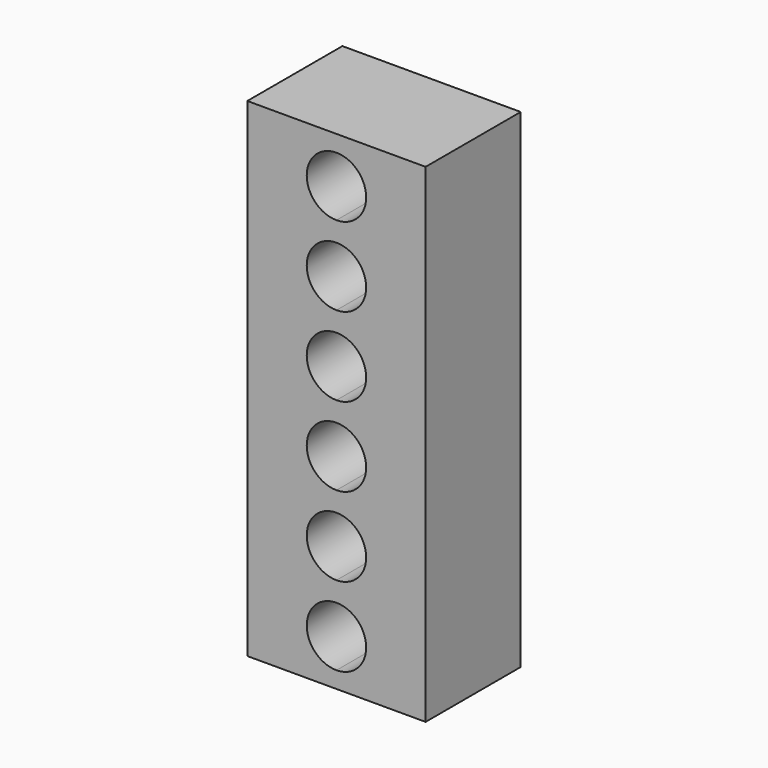
from build123d import *

# Parameters (mm, degrees)
F1_DEPTH = 22.86


with BuildPart() as f1:
    # F0 (on Front) → F1 (new body)
    with BuildSketch(Plane.XZ):
        with BuildLine():
            Line((0, 93.98), (0, 0))
            Line((0, 0), (17.145, 0))
            Line((17.145, 0), (17.145, 3.175))
            ThreePointArc((17.145, 3.175), (11.43, 8.89), (17.145, 14.605))
            Line((17.145, 14.605), (17.145, 18.415))
            ThreePointArc((17.145, 18.415), (11.43, 24.13), (17.145, 29.845))
            Line((17.145, 29.845), (17.145, 33.655))
            ThreePointArc((17.145, 33.655), (11.43, 39.37), (17.145, 45.085))
            Line((17.145, 45.085), (17.145, 48.895))
            ThreePointArc((17.145, 48.895), (11.43, 54.61), (17.145, 60.325))
            Line((17.145, 60.325), (17.145, 64.135))
            ThreePointArc((17.145, 64.135), (11.43, 69.85), (17.145, 75.565))
            Line((17.145, 75.565), (17.145, 79.375))
            ThreePointArc((17.145, 79.375), (11.43, 85.09), (17.145, 90.805))
            Line((17.145, 90.805), (17.145, 93.98))
            Line((17.145, 93.98), (0, 93.98))
        make_face()
        with BuildLine():
            Line((17.145, 3.175), (17.145, 0))
            Line((17.145, 0), (34.29, 0))
            Line((34.29, 0), (34.29, 93.98))
            Line((34.29, 93.98), (17.145, 93.98))
            Line((17.145, 93.98), (17.145, 90.805))
            ThreePointArc((17.145, 90.805), (21.1861152545, 89.1311152545), (22.86, 85.09))
            ThreePointArc((22.86, 85.09), (21.1861152545, 81.0488847455), (17.145, 79.375))
            Line((17.145, 79.375), (17.145, 75.565))
            ThreePointArc((17.145, 75.565), (21.1861152545, 73.8911152545), (22.86, 69.85))
            ThreePointArc((22.86, 69.85), (21.1861152545, 65.8088847455), (17.145, 64.135))
            Line((17.145, 64.135), (17.145, 60.325))
            ThreePointArc((17.145, 60.325), (21.1861152545, 58.6511152545), (22.86, 54.61))
            ThreePointArc((22.86, 54.61), (21.1861152545, 50.5688847455), (17.145, 48.895))
            Line((17.145, 48.895), (17.145, 45.085))
            ThreePointArc((17.145, 45.085), (21.1861152545, 43.4111152545), (22.86, 39.37))
            ThreePointArc((22.86, 39.37), (21.1861152545, 35.3288847455), (17.145, 33.655))
            Line((17.145, 33.655), (17.145, 29.845))
            ThreePointArc((17.145, 29.845), (21.1861152545, 28.1711152545), (22.86, 24.13))
            ThreePointArc((22.86, 24.13), (21.1861152545, 20.0888847455), (17.145, 18.415))
            Line((17.145, 18.415), (17.145, 14.605))
            ThreePointArc((17.145, 14.605), (21.1861152545, 12.9311152545), (22.86, 8.89))
            ThreePointArc((22.86, 8.89), (21.1861152545, 4.8488847455), (17.145, 3.175))
        make_face()
    extrude(amount=F1_DEPTH)


solid = f1.part
